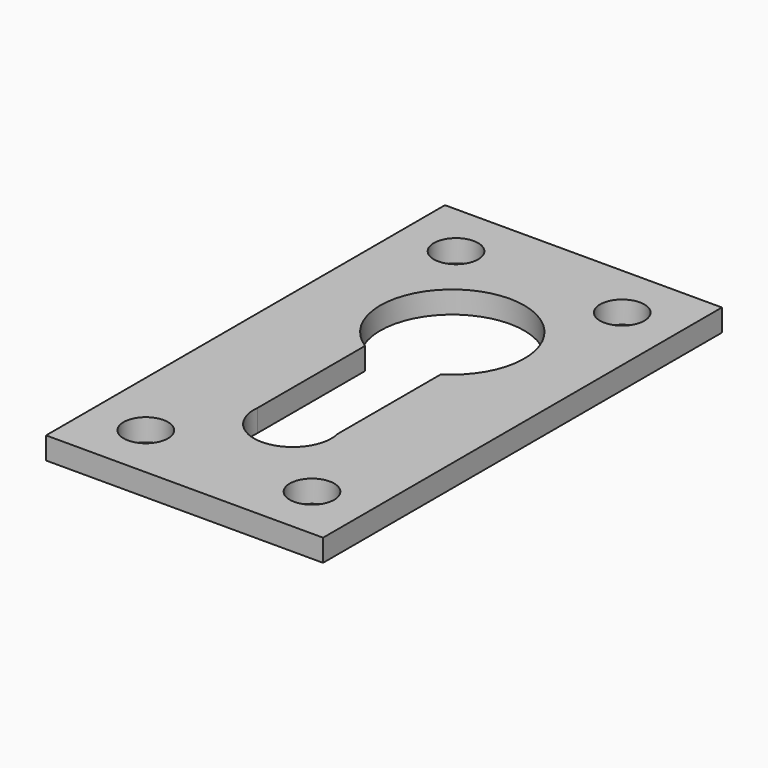
from build123d import *

# Parameters (mm, degrees)
F0_W     = 25
F0_H     = 45
F0_R     = 2
F1_DEPTH = 2


with BuildPart() as f1:
    # F0 (on Top) → F1 (new body)
    with BuildSketch(Plane.XY):
        Rectangle(F0_W, F0_H)
        with Locations((-7.5, -17.5)):
            Circle(F0_R, mode=Mode.SUBTRACT)
        with Locations((7.5, -17.5)):
            Circle(F0_R, mode=Mode.SUBTRACT)
        with Locations((-7.5, 17.5)):
            Circle(F0_R, mode=Mode.SUBTRACT)
        with BuildLine():
            ThreePointArc((-3.478162, 2.211919), (0.041681, 14.202904), (3.407455, 2.167764))
            Line((3.407455, 2.167764), (3.407455, -9.497431))
            ThreePointArc((3.407455, -9.497431), (0.207613, -13.790799), (-3.478162, -9.906592))
            Line((-3.478162, -9.906592), (-3.478162, 2.211919))
        make_face(mode=Mode.SUBTRACT)
        with Locations((7.5, 17.5)):
            Circle(F0_R, mode=Mode.SUBTRACT)
    extrude(amount=F1_DEPTH)


solid = f1.part
